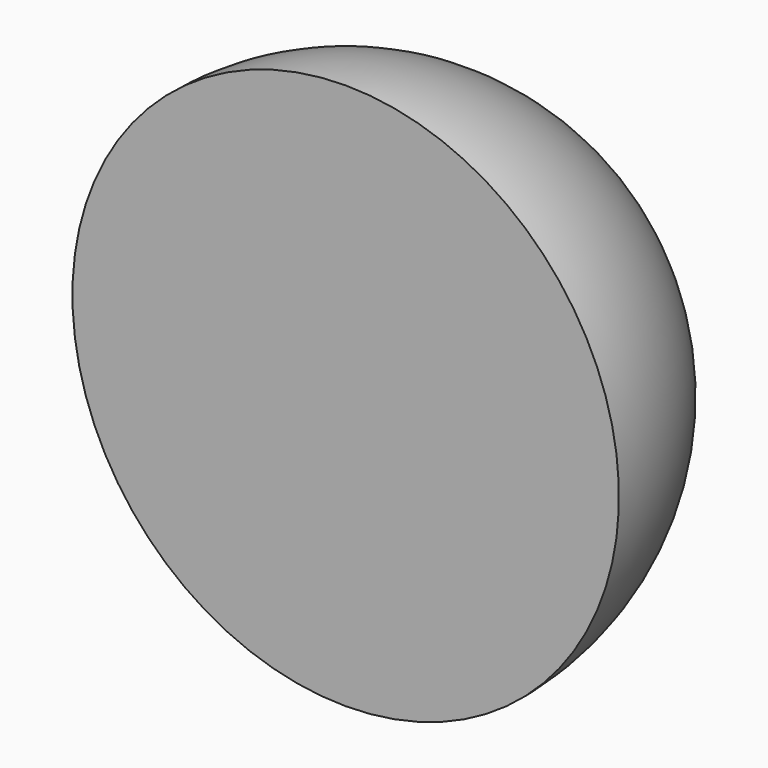
from build123d import *

# Parameters (mm, degrees)
F1_ANGLE = 180


with BuildPart() as f1:
    # F0 (on Front) → F1 (revolve)
    with BuildSketch(Plane.XZ):
        with BuildLine():
            Line((0, 0), (0, 12.7))
            ThreePointArc((0, 12.7), (-12.7, 0), (0, -12.7))
            Line((0, -12.7), (0, 0))
        make_face()
    revolve(axis=Axis((0, 0, 6.35), (0, 0, -1)), revolution_arc=F1_ANGLE)


solid = f1.part
